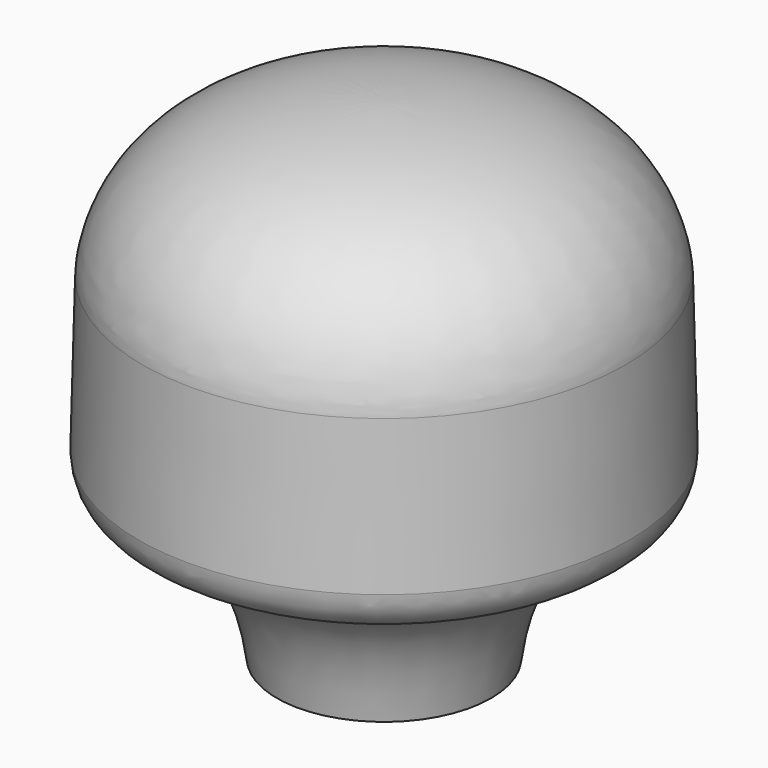
from build123d import *


with BuildPart() as f1:
    # F0 (on Front) → F1 (revolve)
    with BuildSketch(Plane.XZ):
        with BuildLine():
            Line((25.4, -23.258687), (25.012139, -7.388425))
            add(Edge.make_bspline(
                [(0, 8.491313), (24.066649, 8.473798), (24.963785, -6.30525), (25.012139, -7.388425)],
                knots=[0, 0, 0, 0, 29.627238, 29.627238, 29.627238, 29.627238], degree=3))
            Line((0, 8.491313), (0, -42.308687))
            Line((0, -42.308687), (11.1125, -42.308687))
            add(Edge.make_bspline(
                [(11.1125, -42.308687), (13.439153, -24.132646), (24.852991, -31.212721), (25.4, -23.258687)],
                knots=[0, 0, 0, 0, 23.8125, 23.8125, 23.8125, 23.8125], degree=3))
        make_face()
    revolve(axis=Axis((0, 0, 48.373865), (0, 0, 1)))


solid = f1.part
